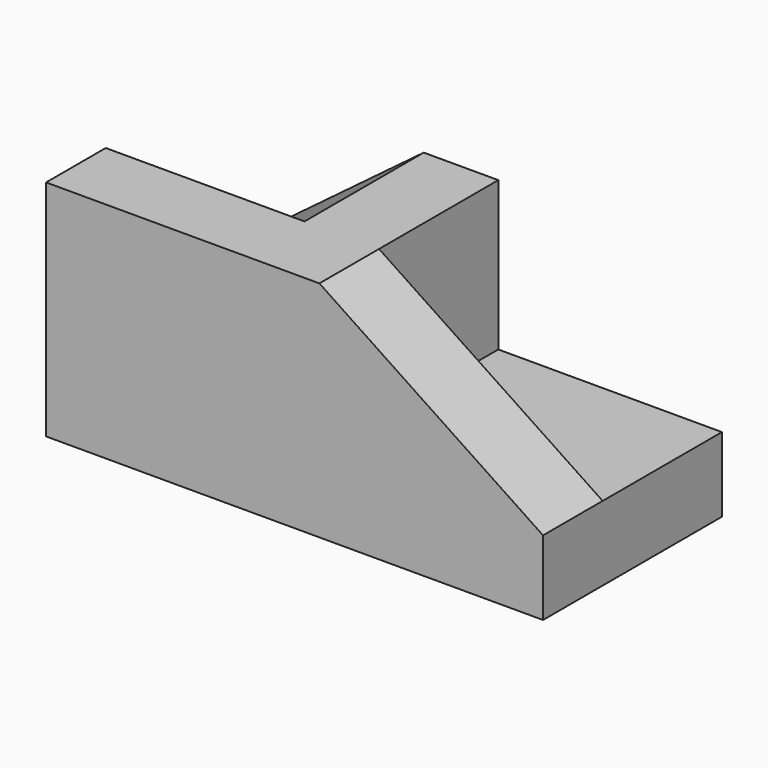
from build123d import *

# Parameters (mm, degrees)
F0_W     = 100
F0_H     = 45
F1_DEPTH = 15
F3_DEPTH = 30
F5_DEPTH = 33
F7_DEPTH = 15


with BuildPart() as f1:
    # F0 (on Top) → F1 (new body)
    with BuildSketch(Plane.XY):
        with Locations((-2.304982, -13.08857)):
            Rectangle(F0_W, F0_H)
    extrude(amount=F1_DEPTH)

    # F2 (on face) → F3 (join)
    with BuildSketch(Plane.XY.offset(15)):
        Polygon((2.695018, -35.58857), (2.695018, 9.41143), (-12.304982, 9.41143), (-12.304982, -20.58857), (-52.304982, -20.58857), (-52.304982, -35.58857), (-12.304982, -35.58857), align=None)
    extrude(amount=F3_DEPTH)

    # F4 (on face) → F5 (join)
    with BuildSketch(Plane(origin=(0, 9.41143, 0), x_dir=(-1, 0, 0), z_dir=(0, 1, 0))):
        Polygon((52.304982, 15), (12.304982, 45), (12.304982, 15), align=None)
    extrude(amount=-F5_DEPTH)

    # F6 (on face) → F7 (join)
    with BuildSketch(Plane.XZ.offset(35.58857)):
        Polygon((47.695018, 15), (2.695018, 45), (2.695018, 15), align=None)
    extrude(amount=-F7_DEPTH)


solid = f1.part
